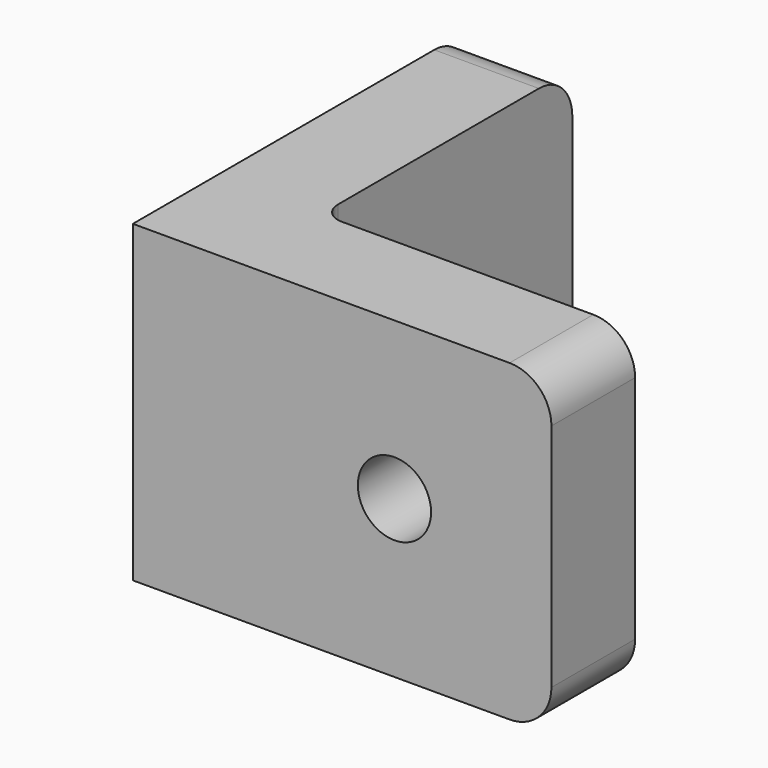
from build123d import *

# Parameters (mm, degrees)
F0_W     = 15
F0_H     = 5
F1_DEPTH = 15
F3_R     = 1.5
F4_DEPTH = 127
F5_D     = 3.5
F6_R     = 2
F7_R     = 2
F8_R     = 1


with BuildPart() as f1:
    # F0 (on Top) → F1 (new body)
    with BuildSketch(Plane.XY):
        Polygon((-7695.709171, 2880.865144), (-7695.709171, 2860.865144), (-7690.709171, 2860.865144), (-7690.709171, 2865.865144), (-7690.709171, 2880.865144), align=None)
        with Locations((-7683.209171, 2863.365144)):
            Rectangle(F0_W, F0_H)
    extrude(amount=F1_DEPTH)

    # F3 (on face) → F4 (cut)
    with BuildSketch(Plane.YZ.offset(-7690.709171)):
        with Locations((2873.365144, 7.5)):
            Circle(F3_R)
    extrude(amount=-F4_DEPTH, mode=Mode.SUBTRACT)

    # F5 (through all)
    with Locations(Plane(origin=(0, 2865.865144, 0), x_dir=(-1, 0, 0), z_dir=(0, 1, 0))):
        with Locations((7683.209171, 7.5)):
            Hole(F5_D / 2)

    # F6
    f6_edges = [f1.edges().sort_by_distance(p)[0] for p in [
        (-7693.209171, 2880.865144, 15),
        (-7693.209171, 2880.865144, 0),
    ]]
    fillet(f6_edges, radius=F6_R)

    # F7
    f7_edges = [f1.edges().sort_by_distance(p)[0] for p in [
        (-7675.709171, 2863.365144, 15),
        (-7675.709171, 2863.365144, 0),
    ]]
    fillet(f7_edges, radius=F7_R)

    # F8
    f8_edges = [f1.edges().sort_by_distance(p)[0] for p in [
        (-7690.709171, 2865.865144, 7.5),
    ]]
    fillet(f8_edges, radius=F8_R)


solid = f1.part
